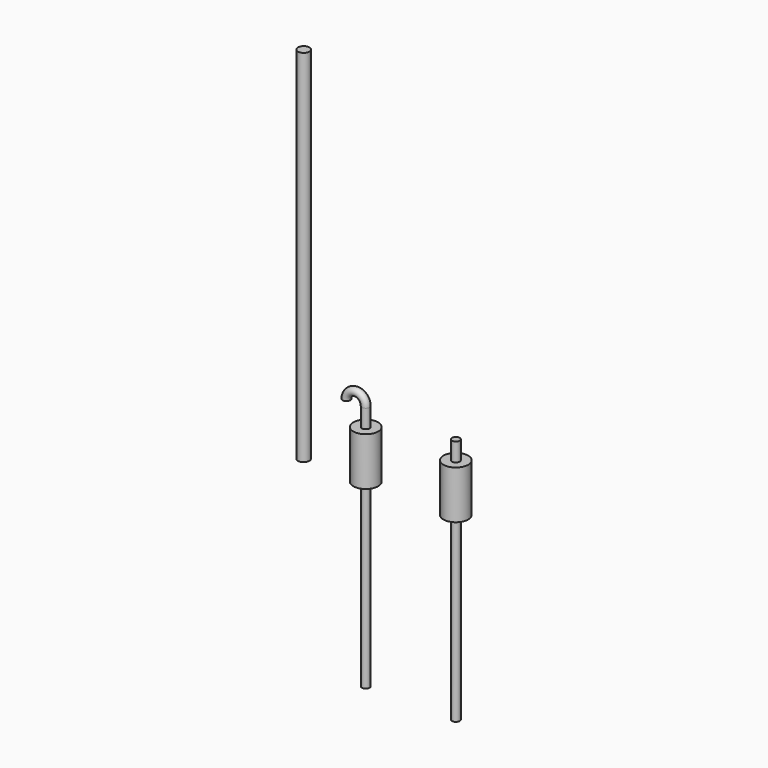
from build123d import *

# Parameters (mm, degrees)
F0_R      = 0.875
F0_R_2    = 0.275
F1_DEPTH  = 3.4
F2_DEPTH  = 12.7
F3_DEPTH  = 4.699
F3_FACE_R = 0.275
F6_ANGLE  = 180
F0_R_3    = 0.4064
F7_DEPTH  = 25.4


with BuildPart() as f1:
    # F0 (on Top) → F1 (new body)
    with BuildSketch(Plane.XY):
        Circle(F0_R)
        Circle(F0_R_2, mode=Mode.SUBTRACT)
        Circle(F0_R_2)
    extrude(amount=F1_DEPTH)

    # F0 (on Top) → F2 (join)
    with BuildSketch(Plane.XY):
        Circle(F0_R_2)
    extrude(amount=-F2_DEPTH)

    # F0 (on Top) → F3 (join)
    with BuildSketch(Plane.XY):
        Circle(F0_R_2)
    extrude(amount=F3_DEPTH)


with BuildPart() as f4_1:
    # F4: copy of F1
    add(f1.part.moved(Location((6.35, 0, 0))))


with BuildPart() as f1_1:
    add(f1.part)

    # F3_face (on face) → F6 (revolve)
    with BuildSketch(Plane.XY.offset(4.699)):
        Circle(F3_FACE_R)
    revolve(axis=Axis((-0.68199, 0, 4.699), (0, -1, 0)), revolution_arc=F6_ANGLE)


with BuildPart() as f7:
    # F0 (on Top) → F7 (new body)
    with BuildSketch(Plane.XY):
        with Locations((-4.3760077097, 0)):
            Circle(F0_R_3)
    extrude(amount=F7_DEPTH)


solid = Compound([f4_1.part, f1_1.part, f7.part])
